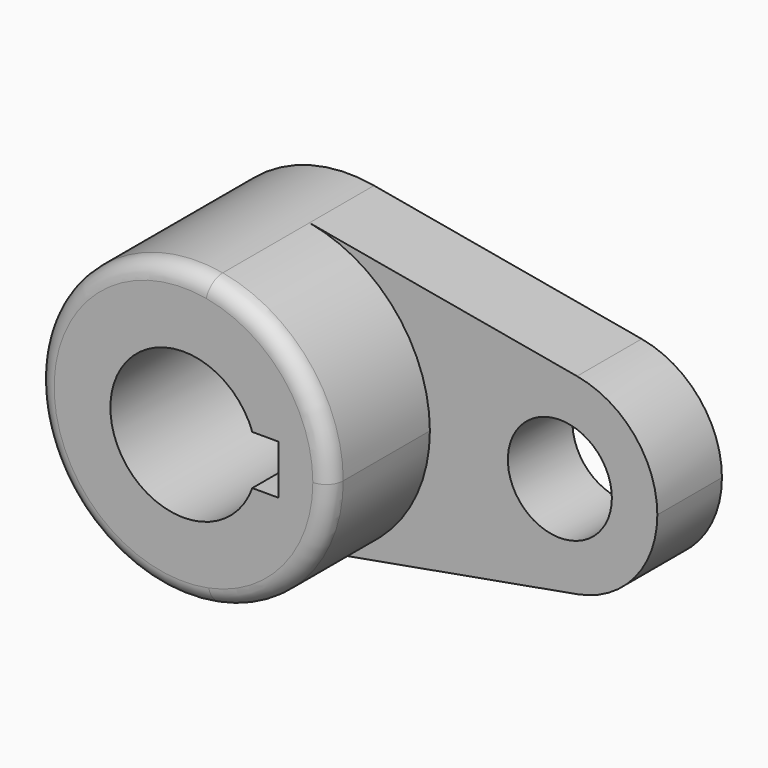
from build123d import *

# Parameters (mm, degrees)
F1_DEPTH = 40.2336
F0_R     = 10.16
F2_DEPTH = 15.7734
F3_R     = 3.302


with BuildPart() as f1:
    # F0 (on Front) → F1 (new body)
    with BuildSketch(Plane.XZ):
        with BuildLine():
            ThreePointArc((-47.222857, -28.021934), (-30.722388, -18.119866), (-24.242661, 0))
            ThreePointArc((-24.242661, 0), (-30.901637, 18.336262), (-47.775014, 28.126541))
            ThreePointArc((-47.775014, 28.126541), (-81.39128, -0.28099), (-47.222857, -28.021934))
        make_face()
        with BuildLine():
            ThreePointArc((-39.369896, -4.826), (-67.105161, 0), (-39.369896, 4.826))
            Line((-39.369896, 4.826), (-34.288361, 4.826))
            Line((-34.288361, 4.826), (-34.288361, 0))
            Line((-34.288361, 0), (-34.288361, -4.826))
            Line((-34.288361, -4.826), (-39.369896, -4.826))
        make_face(mode=Mode.SUBTRACT)
    extrude(amount=F1_DEPTH)

    # F0 (on Front) → F2 (join)
    with BuildSketch(Plane.XZ):
        with BuildLine():
            ThreePointArc((-47.775014, 28.126541), (-30.901637, 18.336262), (-24.242661, 0))
            ThreePointArc((-24.242661, 0), (-30.722388, -18.119866), (-47.222857, -28.021934))
            Line((-47.222857, -28.021934), (4.517132, -18.751381))
            ThreePointArc((4.517132, -18.751381), (-17.892661, 0.001001), (4.519103, 18.751028))
            Line((4.519103, 18.751028), (-47.775014, 28.126541))
        make_face()
        with BuildLine():
            ThreePointArc((20.207339, 0), (15.768022, 12.224174), (4.519103, 18.751028))
            ThreePointArc((4.519103, 18.751028), (-17.892661, 0.001001), (4.517132, -18.751381))
            ThreePointArc((4.517132, -18.751381), (15.767379, -12.224942), (20.207339, 0))
        make_face()
        with Locations((1.157339, 0)):
            Circle(F0_R, mode=Mode.SUBTRACT)
    extrude(amount=F2_DEPTH)

    # F3
    f3_edges = [f1.edges().sort_by_distance(p)[0] for p in [
        (-58.412466, -40.2336, 28.021934),
    ]]
    fillet(f3_edges, radius=F3_R)


solid = f1.part
